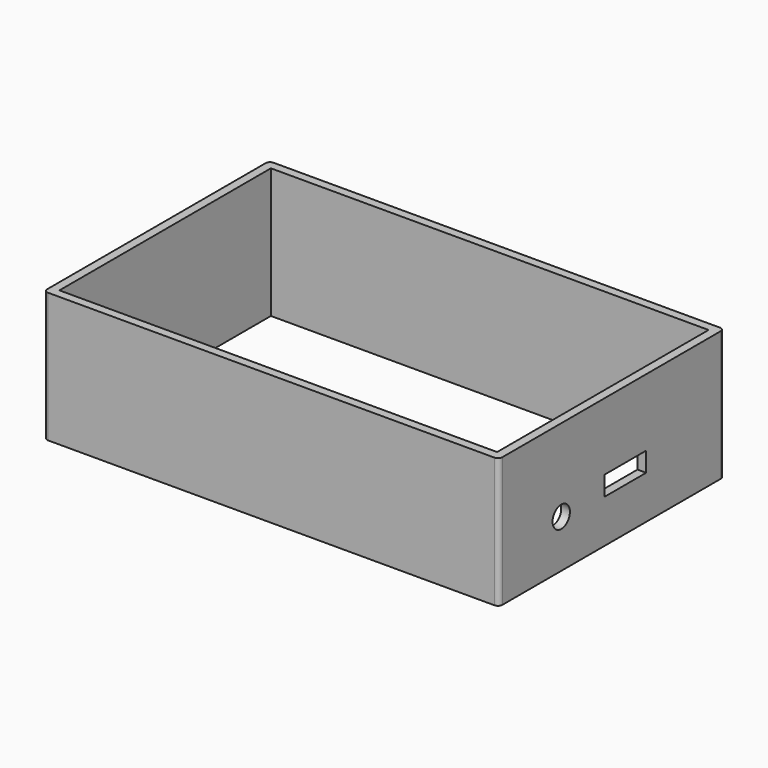
from build123d import *

# Parameters (mm, degrees)
SKETCH004_W   = 65
SKETCH004_H   = 30
SKETCH004_R   = 2.5
SKETCH004_W_2 = 12
SKETCH004_H_2 = 4.5
PAD003_DEPTH  = 2
FILLET004_R   = 1
FILLET005_R   = 1
SKETCH002_W   = 105
SKETCH002_H   = 30
PAD001_DEPTH  = 2
FILLET002_R   = 1
FILLET003_R   = 1
SKETCH005_W   = 65
SKETCH005_H   = 30
PAD004_DEPTH  = 2
FILLET016_R   = 1
FILLET021_R   = 1
SKETCH003_W   = 105
SKETCH003_H   = 30
PAD002_DEPTH  = 2
FILLET009_R   = 1
FILLET017_R   = 1


with BuildPart() as body003:
    # Sketch004 → Pad003 (new body)
    with BuildSketch(Plane.YZ):
        with Locations((0, 15)):
            Rectangle(SKETCH004_W, SKETCH004_H)
        with Locations((-14.5, 11)):
            Circle(SKETCH004_R, mode=Mode.SUBTRACT)
        with Locations((3.989801, 12.224792)):
            Rectangle(SKETCH004_W_2, SKETCH004_H_2, mode=Mode.SUBTRACT)
    extrude(amount=PAD003_DEPTH)

    # Fillet004
    fillet004_edges = [body003.edges().sort_by_distance(p)[0] for p in [
        (2, 32.5, 15),
    ]]
    fillet(fillet004_edges, radius=FILLET004_R)

    # Fillet005
    fillet005_edges = [body003.edges().sort_by_distance(p)[0] for p in [
        (2, -32.5, 15),
    ]]
    fillet(fillet005_edges, radius=FILLET005_R)


with BuildPart() as body003_1:
    # Body003 placement: moved
    add(body003.part.moved(Location((50.5, 0, 0))))


with BuildPart() as body001:
    # Sketch002 → Pad001 (new body)
    with BuildSketch(Plane.XZ):
        with Locations((0, 15)):
            Rectangle(SKETCH002_W, SKETCH002_H)
    extrude(amount=PAD001_DEPTH)

    # Fillet002
    fillet002_edges = [body001.edges().sort_by_distance(p)[0] for p in [
        (-52.5, -2, 15),
    ]]
    fillet(fillet002_edges, radius=FILLET002_R)

    # Fillet003
    fillet003_edges = [body001.edges().sort_by_distance(p)[0] for p in [
        (52.5, -2, 15),
    ]]
    fillet(fillet003_edges, radius=FILLET003_R)


with BuildPart() as body001_1:
    # Body001 placement: moved
    add(body001.part.moved(Location((0, -30.5, 0))))


with BuildPart() as body004:
    # Sketch005 → Pad004 (new body)
    with BuildSketch(Plane.YZ):
        with Locations((0, 15)):
            Rectangle(SKETCH005_W, SKETCH005_H)
    extrude(amount=PAD004_DEPTH)

    # Fillet016
    fillet016_edges = [body004.edges().sort_by_distance(p)[0] for p in [
        (0, 32.5, 15),
    ]]
    fillet(fillet016_edges, radius=FILLET016_R)

    # Fillet021
    fillet021_edges = [body004.edges().sort_by_distance(p)[0] for p in [
        (0, -32.5, 15),
    ]]
    fillet(fillet021_edges, radius=FILLET021_R)


with BuildPart() as body004_1:
    # Body004 placement: moved
    add(body004.part.moved(Location((-52.5, 0, 0))))


with BuildPart() as body010:
    # Sketch003 → Pad002 (new body)
    with BuildSketch(Plane.XZ):
        with Locations((0, 15)):
            Rectangle(SKETCH003_W, SKETCH003_H)
    extrude(amount=PAD002_DEPTH)

    # Fillet009
    fillet009_edges = [body010.edges().sort_by_distance(p)[0] for p in [
        (52.5, 0, 15),
    ]]
    fillet(fillet009_edges, radius=FILLET009_R)

    # Fillet017
    fillet017_edges = [body010.edges().sort_by_distance(p)[0] for p in [
        (-52.5, 0, 15),
    ]]
    fillet(fillet017_edges, radius=FILLET017_R)


with BuildPart() as body010_1:
    # Body002 placement: moved
    add(body010.part.moved(Location((0, 32.5, 0))))

    # Fusion001: union Body003, Body001, Body004
    add(body003_1.part)
    add(body001_1.part)
    add(body004_1.part)


solid = body010_1.part
